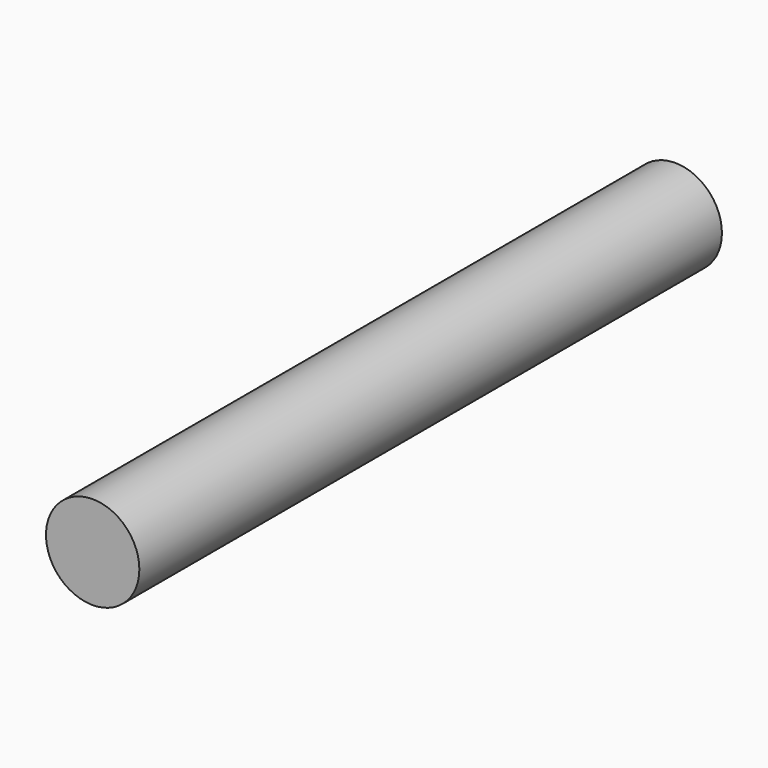
from build123d import *

# Parameters (mm, degrees)
F0_R      = 5
F1_DEPTH  = 90
F1_FACE_R = 5
F2_DEPTH  = 12


with BuildPart() as f1:
    # F0 (on Front) → F1 (new body)
    with BuildSketch(Plane.XZ):
        Circle(F0_R)
    extrude(amount=F1_DEPTH)

    # F1_face (on face) → F2 (cut)
    with BuildSketch(Plane.XZ.offset(90)):
        Circle(F1_FACE_R)
    extrude(amount=-F2_DEPTH, mode=Mode.SUBTRACT)


solid = f1.part
